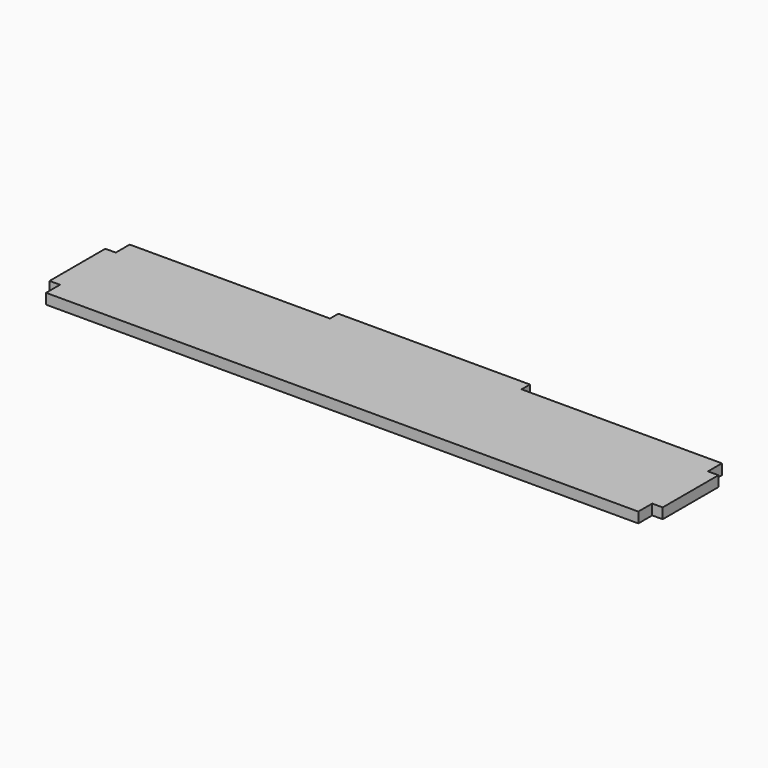
from build123d import *

# Parameters (mm, degrees)
F0_W     = 55
F0_H     = 3
F0_W_2   = 3
F0_H_2   = 20
F1_DEPTH = 3


with BuildPart() as f1:
    # F0 (on Top) → F1 (new body)
    with BuildSketch(Plane.XY):
        Polygon((85, 10), (85, 15), (27.5, 15), (-27.5, 15), (-85, 15), (-85, 10), (-85, -10), (-85, -15), (85, -15), (85, -10), align=None)
        with Locations((0, 16.5)):
            Rectangle(F0_W, F0_H)
        with Locations((86.5, 0)):
            Rectangle(F0_W_2, F0_H_2)
        with Locations((-86.5, 0)):
            Rectangle(F0_W_2, F0_H_2)
    extrude(amount=F1_DEPTH)


solid = f1.part
